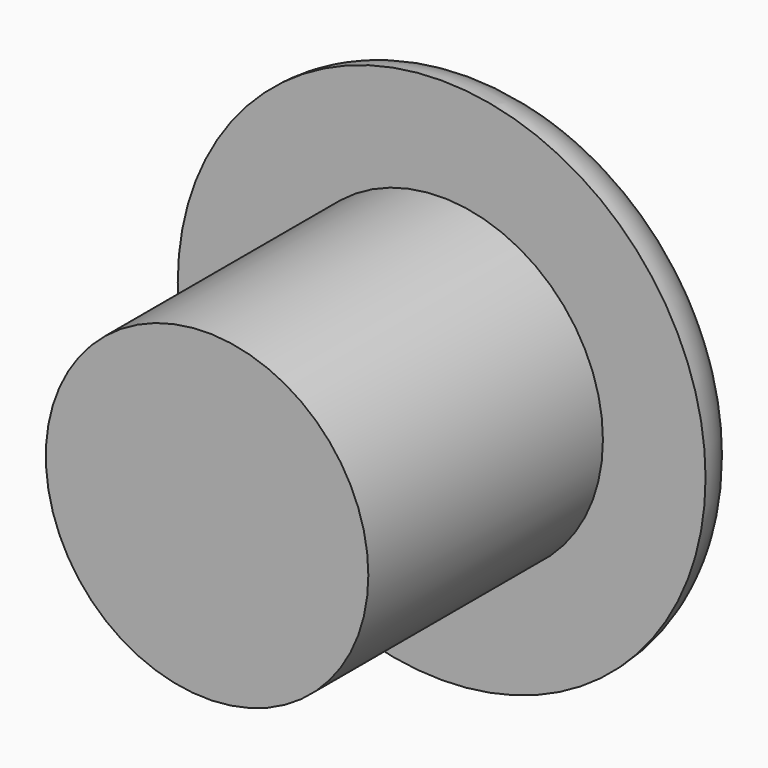
from build123d import *

# Parameters (mm, degrees)
F0_R     = 9
F1_DEPTH = 12
F3_R     = 2
F2_R     = 9
F2_R_2   = 5.5
F4_DEPTH = 10


with BuildPart() as f1:
    # F0 (on Front) → F1 (new body)
    with BuildSketch(Plane.XZ):
        Circle(F0_R)
    extrude(amount=F1_DEPTH)

    # F3
    f3_edges = [f1.edges().sort_by_distance(p)[0] for p in [
        (-9, 0, 0),
    ]]
    fillet(f3_edges, radius=F3_R)

    # F2 (on face) → F4 (cut)
    with BuildSketch(Plane.XZ.offset(12)):
        Circle(F2_R)
        Circle(F2_R_2, mode=Mode.SUBTRACT)
    extrude(amount=-F4_DEPTH, mode=Mode.SUBTRACT)


solid = f1.part
